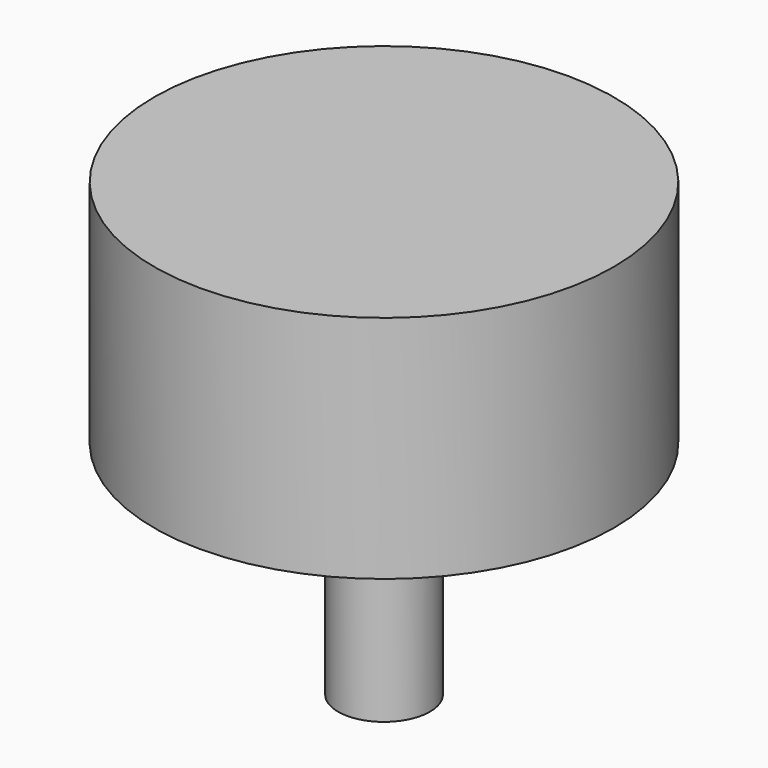
from build123d import *


with BuildPart() as f1:
    # F0 (on Front) → F1 (revolve)
    with BuildSketch(Plane.XZ):
        with BuildLine():
            add(Edge.make_bspline(
                [(3.2, 5.2), (1.2, 5.2), (1.2, 0)],
                knots=[0, 0, 0, 1.5707963268, 1.5707963268, 1.5707963268], degree=2, weights=[1, 0.7071067812, 1]))
            Line((3.2, 5.2), (13.2, 5.2))
            Line((13.2, 5.2), (13.2, -4.8))
            Line((13.2, -4.8), (50, -4.8))
            Line((50, -4.8), (50, 45.2))
            Line((50, 45.2), (0, 45.2))
            Line((0, 45.2), (0, -53))
            Line((0, -53), (10, -53))
            Line((10, -53), (10, -3))
            Line((10, -3), (1.7773502692, -3))
            Line((1.7773502692, -3), (1.2, -2))
            Line((1.2, -2), (1.2, 0))
        make_face()
    revolve(axis=Axis((0, 0, -3.9), (0, 0, -1)))


with BuildPart() as f3:
    # F2 (on Front) → F3 (revolve)
    with BuildSketch(Plane.XZ):
        Polygon((1.2, 5.2), (3.2, 5.2), (13.2, 5.2), (13.2, -4.8), (50, -4.8), (50, 45.2), (0, 45.2), (0, -53), (10, -53), (10, -3), (1.7773502692, -3), (1.2, -3), (1.2, -2), (1.2, 0), align=None)
    revolve(axis=Axis((0, 0, -3.9), (0, 0, -1)))


with BuildPart() as f5:
    # F4 (on Front) → F5 (revolve)
    with BuildSketch(Plane.XZ):
        Polygon((13.2, 5.2), (13.2, -4.8), (50, -4.8), (50, 45.2), (0, 45.2), (0, -53), (10, -53), (10, -3), (1.7773502692, -3), (1.7773502692, 5.2), align=None)
    revolve(axis=Axis((0, 0, -3.9), (0, 0, -1)))


with BuildPart() as f7:
    # F6 (on Front) → F7 (revolve)
    with BuildSketch(Plane.XZ):
        Polygon((3.2, 5.2), (13.2, 5.2), (13.2, -4.8), (50, -4.8), (50, 45.2), (0, 45.2), (0, -53), (10, -53), (10, -3), (3.2, -3), align=None)
    revolve(axis=Axis((0, 0, -3.9), (0, 0, -1)))


with BuildPart() as f9:
    # F8 (on face) → F9 (revolve)
    with BuildSketch(Plane.XZ):
        Polygon((1.2, 0), (3.2, 5.2), (13.2, 5.2), (13.2, -4.8), (50, -4.8), (50, 45.2), (0, 45.2), (0, -53), (10, -53), (10, -3), (1.7773502692, -3), (1.2, -2), align=None)
    revolve(axis=Axis((0, 0, -3.9), (0, 0, -1)))


solid = Compound([f1.part, f3.part, f5.part, f7.part, f9.part])
